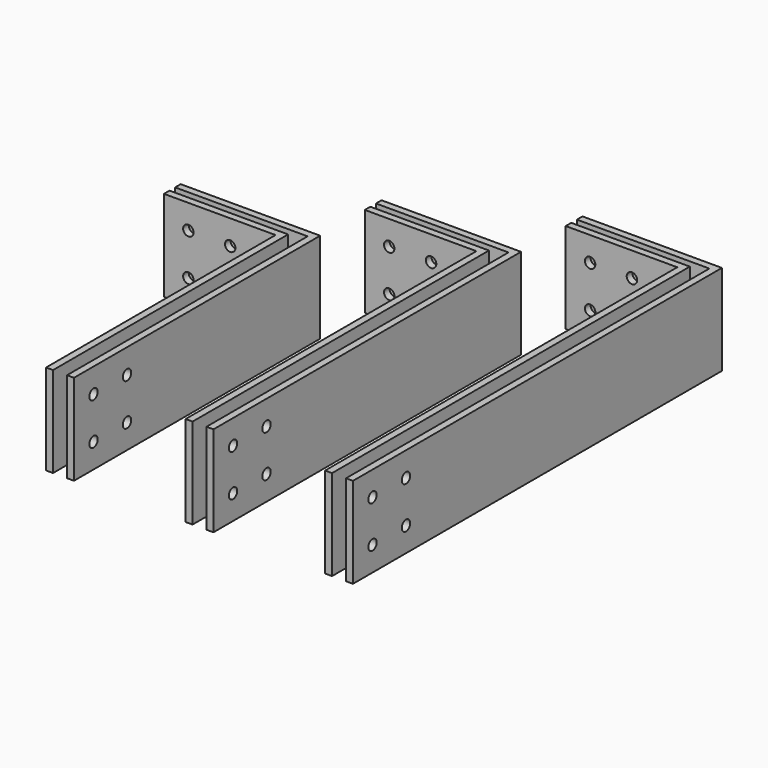
from build123d import *

# Parameters (mm, degrees)
F1_DEPTH      = 41.275
F2_R          = 4.7625
F3_DEPTH      = 279.401
F3_DEPTH_BACK = 101.601
F4_R          = 4.7625
F5_DEPTH      = 158.751


with BuildPart() as f1:
    # F0 (on Top) → F1 (new body, symmetric)
    with BuildSketch(Plane.XY):
        Polygon((0, 261.1374), (0, 0), (6.35, 0), (6.35, 267.4874), (-101.6, 267.4874), (-101.6, 261.1374), align=None)
        Polygon((19.05, 273.8374), (19.05, 0), (25.4, 0), (25.4, 280.1874), (-101.6, 280.1874), (-101.6, 273.8374), align=None)
        Polygon((127, 330.9874), (127, 0), (133.35, 0), (133.35, 337.3374), (25.4, 337.3374), (25.4, 330.9874), align=None)
        Polygon((146.05, 343.6874), (146.05, 0), (152.4, 0), (152.4, 350.0374), (25.4, 350.0374), (25.4, 343.6874), align=None)
        Polygon((254, 400.8374), (254, 0), (260.35, 0), (260.35, 407.1874), (152.4, 407.1874), (152.4, 400.8374), align=None)
        Polygon((273.05, 413.5374), (273.05, 0), (279.4, 0), (279.4, 419.8874), (152.4, 419.8874), (152.4, 413.5374), align=None)
    extrude(amount=F1_DEPTH, both=True)

    # F2 (on face) → F3 (cut, two sides)
    with BuildSketch(Plane(origin=(0, 0, 0), x_dir=(0, -1, 0), z_dir=(-1, 0, 0))) as f3_sk:
        with Locations((-22.225, 19.05)):
            Circle(F2_R)
        with Locations((-22.225, -19.05)):
            Circle(F2_R)
        with Locations((-60.325, -19.05)):
            Circle(F2_R)
        with Locations((-60.325, 19.05)):
            Circle(F2_R)
    extrude(amount=-F3_DEPTH, mode=Mode.SUBTRACT)
    extrude(f3_sk.sketch, amount=-F3_DEPTH_BACK, mode=Mode.SUBTRACT)

    # F4 (on face) → F5 (cut, through all)
    with BuildSketch(Plane.XZ.offset(-261.1374)):
        with Locations((-79.375, 19.05)):
            Circle(F4_R)
        with Locations((-79.375, -19.05)):
            Circle(F4_R)
        with Locations((-41.275, -19.05)):
            Circle(F4_R)
        with Locations((-41.275, 19.05)):
            Circle(F4_R)
        with Locations((47.625, 19.05)):
            Circle(F4_R)
        with Locations((47.625, -19.05)):
            Circle(F4_R)
        with Locations((85.725, -19.05)):
            Circle(F4_R)
        with Locations((85.725, 19.05)):
            Circle(F4_R)
        with Locations((174.625, 19.05)):
            Circle(F4_R)
        with Locations((174.625, -19.05)):
            Circle(F4_R)
        with Locations((212.725, -19.05)):
            Circle(F4_R)
        with Locations((212.725, 19.05)):
            Circle(F4_R)
    extrude(amount=-F5_DEPTH, mode=Mode.SUBTRACT)


solid = f1.part
